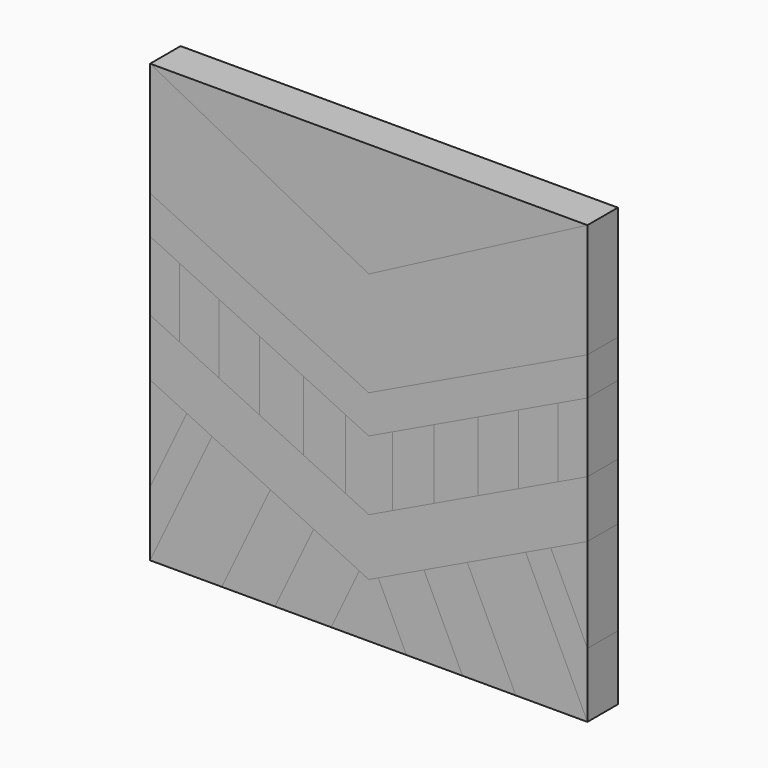
from build123d import *

# Parameters (mm, degrees)
F1_DEPTH  = 25.4
F2_DEPTH  = 25.4
F3_DEPTH  = 25.4
F4_DEPTH  = 25.4
F5_DEPTH  = 25.4
F6_DEPTH  = 25.4
F7_DEPTH  = 25.4
F8_DEPTH  = 25.4
F9_DEPTH  = 25.4
F10_DEPTH = 25.4
F11_DEPTH = 25.4
F12_DEPTH = 25.4
F13_DEPTH = 25.4
F14_DEPTH = 25.4
F15_DEPTH = 25.4
F16_DEPTH = 25.4
F17_DEPTH = 25.4
F18_DEPTH = 25.4
F19_DEPTH = 25.4
F20_DEPTH = 25.4


with BuildPart() as f1:
    # F0 (on Front) → F1 (new body)
    with BuildSketch(Plane.XZ):
        Polygon((0, 69.85), (-146.05, 146.05), (-146.05, 69.85), (0, 0), (146.05, 69.85), (146.05, 146.05), align=None)
    extrude(amount=F1_DEPTH)


with BuildPart() as f2:
    # F0 (on Front) → F2 (new body)
    with BuildSketch(Plane.XZ):
        Polygon((146.05, 146.05), (-146.05, 146.05), (0, 69.85), align=None)
    extrude(amount=F2_DEPTH)


with BuildPart() as f3:
    # F0 (on Front) → F3 (new body)
    with BuildSketch(Plane.XZ):
        Polygon((146.05, 44.45), (146.05, 69.85), (0, 0), (0, -25.4), (15.6810350913, -17.9003745216), (43.666965504, -4.5157991068), (73.025, 9.525), (99.9647179772, 22.4092129456), (126.5349397762, 35.1167103277), align=None)
        Polygon((0, 0), (-146.05, 69.85), (-146.05, 44.45), (-126.5349397762, 35.1167103277), (-99.9647179772, 22.4092129456), (-73.025, 9.525), (-43.666965504, -4.5157991068), (-15.6810350913, -17.9003745216), (0, -25.4), align=None)
    extrude(amount=F3_DEPTH)


with BuildPart() as f4:
    # F0 (on Front) → F4 (new body)
    with BuildSketch(Plane.XZ):
        Polygon((-126.5349397762, 35.1167103277), (-146.05, 44.45), (-146.05, -1.8499833584), (-126.5349397762, -11.1832730307), align=None)
    extrude(amount=F4_DEPTH)


with BuildPart() as f5:
    # F0 (on Front) → F5 (new body)
    with BuildSketch(Plane.XZ):
        Polygon((-99.9647179772, 22.4092129456), (-126.5349397762, 35.1167103277), (-126.5349397762, -11.1832730307), (-99.9647179772, -23.8907704128), align=None)
    extrude(amount=F5_DEPTH)


with BuildPart() as f6:
    # F0 (on Front) → F6 (new body)
    with BuildSketch(Plane.XZ):
        Polygon((-73.025, 9.525), (-99.9647179772, 22.4092129456), (-99.9647179772, -23.8907704128), (-73.025, -36.7749833584), align=None)
    extrude(amount=F6_DEPTH)


with BuildPart() as f7:
    # F0 (on Front) → F7 (new body)
    with BuildSketch(Plane.XZ):
        Polygon((-43.666965504, -4.5157991068), (-73.025, 9.525), (-73.025, -36.7749833584), (-43.666965504, -50.8157824652), align=None)
    extrude(amount=F7_DEPTH)


with BuildPart() as f8:
    # F0 (on Front) → F8 (new body)
    with BuildSketch(Plane.XZ):
        Polygon((-15.6810350913, -64.2003578799), (-15.6810350913, -17.9003745216), (-43.666965504, -4.5157991068), (-43.666965504, -50.8157824652), align=None)
    extrude(amount=F8_DEPTH)


with BuildPart() as f9:
    # F0 (on Front) → F9 (new body)
    with BuildSketch(Plane.XZ):
        Polygon((15.6810350913, -17.9003745216), (0, -25.4), (0, -71.6999833584), (15.6810350913, -64.2003578799), align=None)
        Polygon((0, -71.6999833584), (0, -25.4), (-15.6810350913, -17.9003745216), (-15.6810350913, -64.2003578799), align=None)
    extrude(amount=F9_DEPTH)


with BuildPart() as f10:
    # F0 (on Front) → F10 (new body)
    with BuildSketch(Plane.XZ):
        Polygon((43.666965504, -4.5157991068), (15.6810350913, -17.9003745216), (15.6810350913, -64.2003578799), (43.666965504, -50.8157824652), align=None)
    extrude(amount=F10_DEPTH)


with BuildPart() as f11:
    # F0 (on Front) → F11 (new body)
    with BuildSketch(Plane.XZ):
        Polygon((73.025, 9.525), (43.666965504, -4.5157991068), (43.666965504, -50.8157824652), (73.025, -36.7749833584), align=None)
    extrude(amount=F11_DEPTH)


with BuildPart() as f12:
    # F0 (on Front) → F12 (new body)
    with BuildSketch(Plane.XZ):
        Polygon((99.9647179772, -23.8907704128), (99.9647179772, 22.4092129456), (73.025, 9.525), (73.025, -36.7749833584), align=None)
    extrude(amount=F12_DEPTH)


with BuildPart() as f13:
    # F0 (on Front) → F13 (new body)
    with BuildSketch(Plane.XZ):
        Polygon((126.5349397762, -11.1832730307), (126.5349397762, 35.1167103277), (99.9647179772, 22.4092129456), (99.9647179772, -23.8907704128), align=None)
    extrude(amount=F13_DEPTH)


with BuildPart() as f14:
    # F0 (on Front) → F14 (new body)
    with BuildSketch(Plane.XZ):
        Polygon((146.05, -1.8499833584), (146.05, 44.45), (126.5349397762, 35.1167103277), (126.5349397762, -11.1832730307), align=None)
    extrude(amount=F14_DEPTH)


with BuildPart() as f15:
    # F0 (on Front) → F15 (new body)
    with BuildSketch(Plane.XZ):
        Polygon((-126.5349397762, -11.1832730307), (-146.05, -1.8499833584), (-146.05, -39.9499833584), (-121.5781699621, -51.6539020722), (-104.7526089072, -59.7009095332), (-65.7727373676, -78.3434567913), (-36.8484210278, -92.1768254755), (-6.360621369, -106.7579470515), (0, -109.7999833584), (0, -71.6999833584), (-15.6810350913, -64.2003578799), (-43.666965504, -50.8157824652), (-73.025, -36.7749833584), (-99.9647179772, -23.8907704128), align=None)
        Polygon((146.05, -39.9499833584), (146.05, -1.8499833584), (126.5349397762, -11.1832730307), (99.9647179772, -23.8907704128), (73.025, -36.7749833584), (43.666965504, -50.8157824652), (15.6810350913, -64.2003578799), (0, -71.6999833584), (0, -109.7999833584), (6.360621369, -106.7579470515), (36.8484210278, -92.1768254755), (65.7727373676, -78.3434567913), (104.7526089072, -59.7009095332), (121.5781699621, -51.6539020722), align=None)
    extrude(amount=F15_DEPTH)


with BuildPart() as f16:
    # F0 (on Front) → F16 (new body)
    with BuildSketch(Plane.XZ):
        Polygon((-121.5781699621, -51.6539020722), (-146.05, -39.9499833584), (-146.05, -102.8222739697), align=None)
    extrude(amount=F16_DEPTH)


with BuildPart() as f17:
    # F0 (on Front) → F17 (new body)
    with BuildSketch(Plane.XZ):
        Polygon((-121.5781699621, -51.6539020722), (-146.05, -102.8222739697), (-146.05, -146.05), (-104.7526089072, -59.7009095332), align=None)
    extrude(amount=F17_DEPTH)


with BuildPart() as f18:
    # F0 (on Front) → F18 (new body)
    with BuildSketch(Plane.XZ):
        Polygon((-104.7526089072, -59.7009095332), (-146.05, -146.05), (-98.1541275978, -146.05), (-65.7727373676, -78.3434567913), align=None)
    extrude(amount=F18_DEPTH)


with BuildPart() as f19:
    # F0 (on Front) → F19 (new body)
    with BuildSketch(Plane.XZ):
        Polygon((-65.7727373676, -78.3434567913), (-98.1541275978, -146.05), (-62.6138523221, -146.05), (-36.8484210278, -92.1768254755), align=None)
    extrude(amount=F19_DEPTH)


with BuildPart() as f19b:
    # F0 (on Front) → F19, piece 2 (new body)
    with BuildSketch(Plane.XZ):
        Polygon((6.360621369, -106.7579470515), (0, -109.7999833584), (-6.360621369, -106.7579470515), (-25.1524727792, -146.05), (25.1524727792, -146.05), align=None)
    extrude(amount=F19_DEPTH)


with BuildPart() as f19c:
    # F0 (on Front) → F19, piece 3 (new body)
    with BuildSketch(Plane.XZ):
        Polygon((65.7727373676, -78.3434567913), (36.8484210278, -92.1768254755), (62.6138523221, -146.05), (98.1541275978, -146.05), align=None)
    extrude(amount=F19_DEPTH)


with BuildPart() as f19d:
    # F0 (on Front) → F19, piece 4 (new body)
    with BuildSketch(Plane.XZ):
        Polygon((146.05, -146.05), (146.05, -102.8222739697), (121.5781699621, -51.6539020722), (104.7526089072, -59.7009095332), align=None)
    extrude(amount=F19_DEPTH)


with BuildPart() as f20:
    # F0 (on Front) → F20 (new body)
    with BuildSketch(Plane.XZ):
        Polygon((-25.1524727792, -146.05), (-6.360621369, -106.7579470515), (-36.8484210278, -92.1768254755), (-62.6138523221, -146.05), align=None)
    extrude(amount=F20_DEPTH)


with BuildPart() as f20b:
    # F0 (on Front) → F20, piece 2 (new body)
    with BuildSketch(Plane.XZ):
        Polygon((36.8484210278, -92.1768254755), (6.360621369, -106.7579470515), (25.1524727792, -146.05), (62.6138523221, -146.05), align=None)
    extrude(amount=F20_DEPTH)


with BuildPart() as f20c:
    # F0 (on Front) → F20, piece 3 (new body)
    with BuildSketch(Plane.XZ):
        Polygon((98.1541275978, -146.05), (146.05, -146.05), (104.7526089072, -59.7009095332), (65.7727373676, -78.3434567913), align=None)
    extrude(amount=F20_DEPTH)


with BuildPart() as f20d:
    # F0 (on Front) → F20, piece 4 (new body)
    with BuildSketch(Plane.XZ):
        Polygon((146.05, -102.8222739697), (146.05, -39.9499833584), (121.5781699621, -51.6539020722), align=None)
    extrude(amount=F20_DEPTH)


solid = Compound([f1.part, f2.part, f3.part, f4.part, f5.part, f6.part, f7.part, f8.part, f9.part, f10.part, f11.part, f12.part, f13.part, f14.part, f15.part, f16.part, f17.part, f18.part, f19.part, f19b.part, f19c.part, f19d.part, f20.part, f20b.part, f20c.part, f20d.part])
